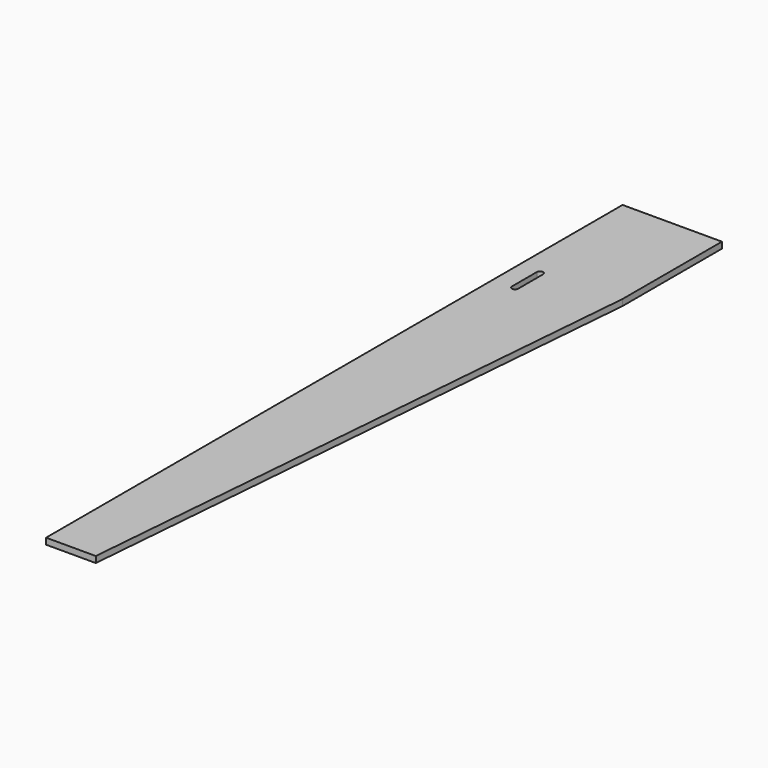
from build123d import *

# Parameters (mm, degrees)
F1_DEPTH = 6.35


with BuildPart() as f1:
    # F0 (on Top) → F1 (new body)
    with BuildSketch(Plane.XY):
        Polygon((101.6, 0), (0, 0), (0, -736.6), (50.8, -736.6), (101.6, -127), align=None)
        with BuildLine():
            ThreePointArc((19.05, -133.35), (22.225, -130.175), (25.4, -133.35))
            Line((25.4, -133.35), (25.4, -165.1))
            ThreePointArc((25.4, -165.1), (22.225, -168.275), (19.05, -165.1))
            Line((19.05, -165.1), (19.05, -133.35))
        make_face(mode=Mode.SUBTRACT)
    extrude(amount=F1_DEPTH)


solid = f1.part
